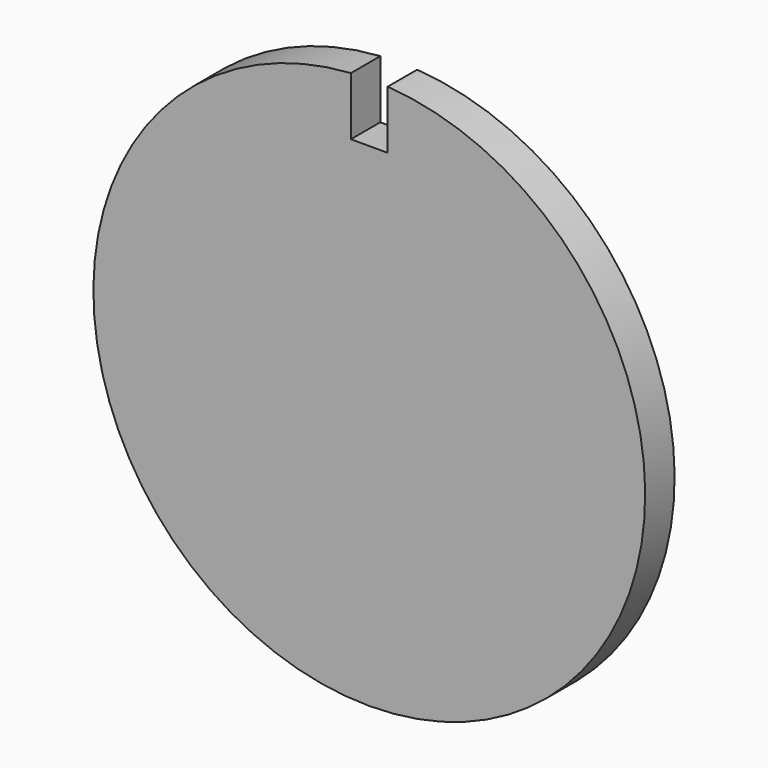
from build123d import *

# Parameters (mm, degrees)
F1_DEPTH = 0.635


with BuildPart() as f1:
    # F0 (on Front) → F1 (new body, symmetric)
    with BuildSketch(Plane.XZ):
        with BuildLine():
            Line((-0.635, 7.493), (-0.635, 9.50381))
            ThreePointArc((-0.635, 9.50381), (0, -9.525), (0.635, 9.50381))
            Line((0.635, 9.50381), (0.635, 7.493))
            Line((0.635, 7.493), (-0.635, 7.493))
        make_face()
    extrude(amount=F1_DEPTH, both=True)


solid = f1.part
